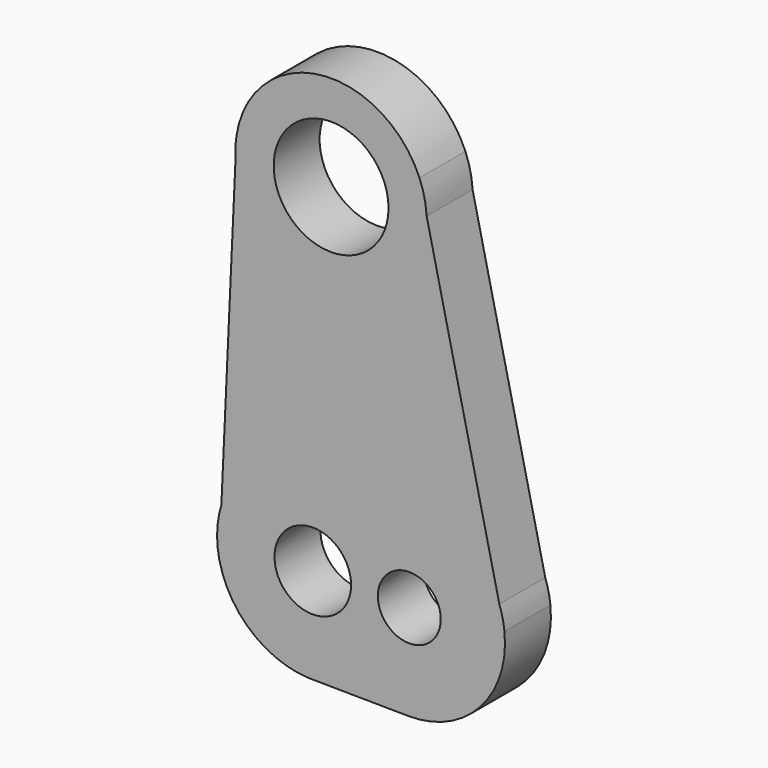
from build123d import *

# Parameters (mm, degrees)
F0_R     = 30
F0_R_2   = 20
F0_R_3   = 16.426163
F1_DEPTH = 30


with BuildPart() as f1:
    # F0 (on Front) → F1 (new body)
    with BuildSketch(Plane.XZ):
        with BuildLine():
            Line((25.452167, 102.326599), (21.697964, 118.746699))
            ThreePointArc((21.697964, 118.746699), (-30.543162, 149.181599), (-73.90544, 107.049292))
            Line((-73.90544, 107.049292), (-74.383778, 96.603497))
            ThreePointArc((-74.383778, 96.603497), (-22.996027, 49.573461), (25.529227, 99.551707))
            ThreePointArc((25.529227, 99.551707), (25.509958, 100.939688), (25.452167, 102.326599))
        make_face()
        with Locations((-24.470773, 99.551707)):
            Circle(F0_R, mode=Mode.SUBTRACT)
        with BuildLine():
            ThreePointArc((25.452167, 102.326599), (24.271483, 110.695874), (21.697964, 118.746699))
            Line((21.697964, 118.746699), (25.452167, 102.326599))
        make_face()
        with BuildLine():
            Line((-74.383778, 96.603497), (-73.90544, 107.049292))
            ThreePointArc((-73.90544, 107.049292), (-74.418432, 101.838933), (-74.383778, 96.603497))
        make_face()
        with BuildLine():
            Line((63.423344, -63.7514), (25.452167, 102.326599))
            ThreePointArc((25.452167, 102.326599), (25.509958, 100.939688), (25.529227, 99.551707))
            ThreePointArc((25.529227, 99.551707), (-22.996027, 49.573461), (-74.383778, 96.603497))
            Line((-74.383778, 96.603497), (-81.802678, -65.407906))
            ThreePointArc((-81.802678, -65.407906), (-51.932173, -33.505145), (-8.39098, -37.273144))
            ThreePointArc((-8.39098, -37.273144), (33.681639, -33.79032), (63.423344, -63.7514))
        make_face()
        with BuildLine():
            ThreePointArc((66.116304, -75.529848), (65.126911, -69.558982), (63.423344, -63.7514))
            Line((63.423344, -63.7514), (66.116304, -75.529848))
        make_face()
        with BuildLine():
            Line((66.116304, -75.529848), (63.423344, -63.7514))
            ThreePointArc((63.423344, -63.7514), (33.681639, -33.79032), (-8.39098, -37.273144))
            ThreePointArc((-8.39098, -37.273144), (-51.932173, -33.505145), (-81.802678, -65.407906))
            Line((-81.802678, -65.407906), (-82.954113, -90.552545))
            ThreePointArc((-82.954113, -90.552545), (-66.293192, -118.399327), (-36.046387, -130.153493))
            Line((-36.046387, -130.153493), (-33.084505, -130.184699))
            ThreePointArc((-33.084505, -130.184699), (-20.762209, -128.398882), (-9.263218, -123.623808))
            ThreePointArc((-9.263218, -123.623808), (2.827482, -128.830063), (15.857913, -130.700348))
            ThreePointArc((15.857913, -130.700348), (53.347166, -114.374677), (66.116304, -75.529848))
        make_face()
        with Locations((-34.038915, -80.193809)):
            Circle(F0_R_2, mode=Mode.SUBTRACT)
        with Locations((16.384675, -80.703144)):
            Circle(F0_R_3, mode=Mode.SUBTRACT)
        with BuildLine():
            Line((-82.954113, -90.552545), (-81.802678, -65.407906))
            ThreePointArc((-81.802678, -65.407906), (-83.986574, -77.906583), (-82.954113, -90.552545))
        make_face()
        with BuildLine():
            Line((-33.084505, -130.184699), (15.857913, -130.700348))
            ThreePointArc((15.857913, -130.700348), (2.827482, -128.830063), (-9.263218, -123.623808))
            ThreePointArc((-9.263218, -123.623808), (-20.762209, -128.398882), (-33.084505, -130.184699))
        make_face()
        with BuildLine():
            Line((-33.084505, -130.184699), (-36.046387, -130.153493))
            ThreePointArc((-36.046387, -130.153493), (-34.565677, -130.191034), (-33.084505, -130.184699))
        make_face()
    extrude(amount=F1_DEPTH)


solid = f1.part
